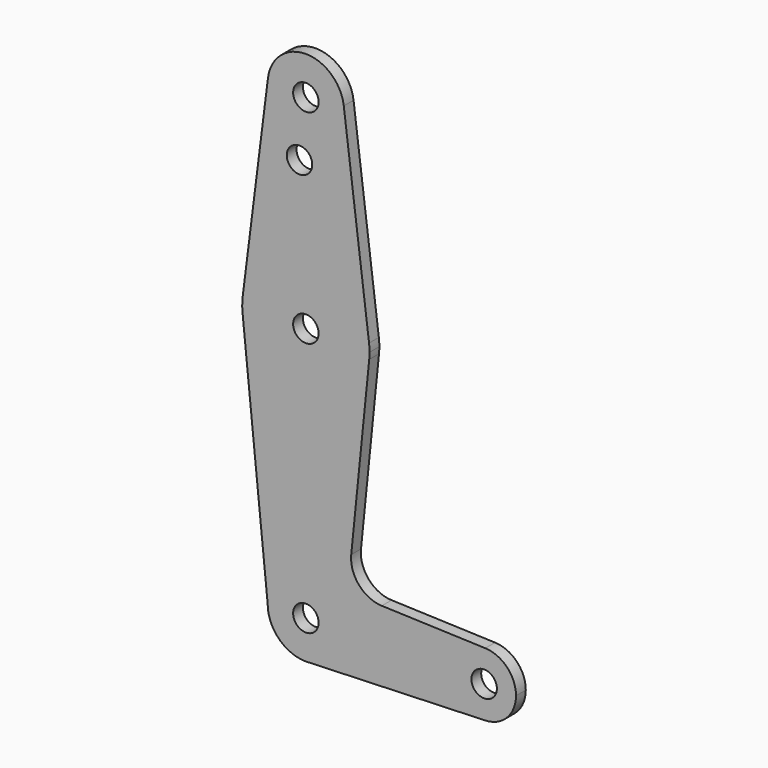
from build123d import *

# Parameters (mm, degrees)
F0_R     = 3.175
F1_DEPTH = 3.048


with BuildPart() as f1:
    # F0 (on Front) → F1 (new body)
    with BuildSketch(Plane.XZ):
        with BuildLine():
            ThreePointArc((-9.450293, 115.490625), (-0.596483, 104.793695), (9.525, 114.3))
            ThreePointArc((9.525, 114.3), (9.506305, 114.896483), (9.450293, 115.490625))
            ThreePointArc((9.450293, 115.490625), (0, 123.825), (-9.450293, 115.490625))
        make_face()
        with Locations((0, 114.3)):
            Circle(F0_R, mode=Mode.SUBTRACT)
        with BuildLine():
            ThreePointArc((9.450293, 115.490625), (9.506305, 114.896483), (9.525, 114.3))
            ThreePointArc((9.525, 114.3), (-0.596483, 104.793695), (-9.450293, 115.490625))
            Line((-9.450293, 115.490625), (-15.750488, 65.484375))
            ThreePointArc((-15.750488, 65.484375), (0, 79.375), (15.750488, 65.484375))
            Line((15.750488, 65.484375), (9.450293, 115.490625))
        make_face()
        with Locations((-1.5875, 100.0252)):
            Circle(F0_R, mode=Mode.SUBTRACT)
        with BuildLine():
            ThreePointArc((15.875, 63.5), (15.843841, 64.494139), (15.750488, 65.484375))
            ThreePointArc((15.750488, 65.484375), (0, 79.375), (-15.750488, 65.484375))
            ThreePointArc((-15.750488, 65.484375), (-15.873819, 63.693615), (-15.794203, 61.90038))
            ThreePointArc((-15.794203, 61.90038), (0, 47.625), (15.794203, 61.90038))
            ThreePointArc((15.794203, 61.90038), (15.854788, 62.699171), (15.875, 63.5))
        make_face()
        with Locations((0, 63.5)):
            Circle(F0_R, mode=Mode.SUBTRACT)
        with BuildLine():
            ThreePointArc((15.794203, 61.90038), (0, 47.625), (-15.794203, 61.90038))
            Line((-15.794203, 61.90038), (-9.525, 0))
            ThreePointArc((-9.525, 0), (0, 9.525), (9.525, 0))
            ThreePointArc((9.525, 0), (6.970557, -6.491299), (0.677344, -9.500886))
            Line((0.677344, -9.500886), (44.732405, -7.932475))
            ThreePointArc((44.732405, -7.932475), (36.5125, 0), (44.732405, 7.932475))
            Line((44.732405, 7.932475), (18.934103, 8.850924))
            ThreePointArc((18.934103, 8.850924), (13.224974, 11.57098), (11.307223, 17.59718))
            Line((11.307223, 17.59718), (15.794203, 61.90038))
        make_face()
        with BuildLine():
            ThreePointArc((9.525, 0), (0, 9.525), (-9.525, 0))
            ThreePointArc((-9.525, 0), (-6.735192, -6.735192), (0, -9.525))
            Line((0, -9.525), (0.677344, -9.500886))
            ThreePointArc((0.677344, -9.500886), (6.970557, -6.491299), (9.525, 0))
        make_face()
        Circle(F0_R, mode=Mode.SUBTRACT)
        with BuildLine():
            Line((0.677344, -9.500886), (0, -9.525))
            ThreePointArc((0, -9.525), (0.338886, -9.51897), (0.677344, -9.500886))
        make_face()
        with BuildLine():
            ThreePointArc((52.3875, 0), (50.161633, 5.51191), (44.732405, 7.932475))
            ThreePointArc((44.732405, 7.932475), (36.5125, 0), (44.732405, -7.932475))
            ThreePointArc((44.732405, -7.932475), (50.161633, -5.51191), (52.3875, 0))
        make_face()
        with Locations((44.45, 0)):
            Circle(F0_R, mode=Mode.SUBTRACT)
        with BuildLine():
            ThreePointArc((9.450293, 115.490625), (9.506305, 114.896483), (9.525, 114.3))
            ThreePointArc((9.525, 114.3), (-0.596483, 104.793695), (-9.450293, 115.490625))
            Line((-9.450293, 115.490625), (-15.750488, 65.484375))
            ThreePointArc((-15.750488, 65.484375), (0, 79.375), (15.750488, 65.484375))
            Line((15.750488, 65.484375), (9.450293, 115.490625))
        make_face()
        with Locations((-1.5875, 100.0252)):
            Circle(F0_R, mode=Mode.SUBTRACT)
    extrude(amount=F1_DEPTH)


solid = f1.part
